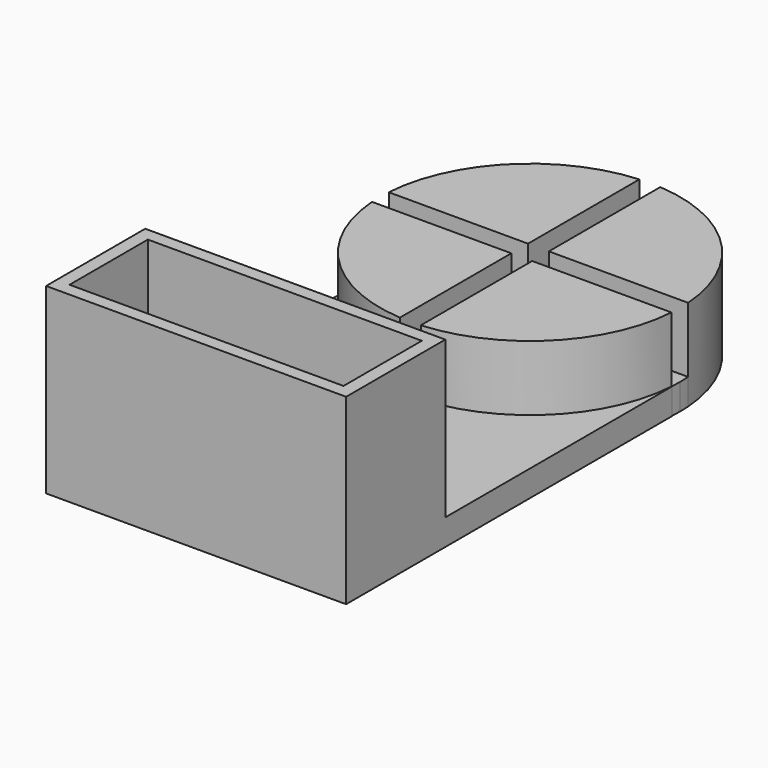
from build123d import *

# Parameters (mm, degrees)
F0_W     = 23
F0_H     = 9.5
F0_W_2   = 21
F0_H_2   = 7.5
F1_DEPTH = 2
F2_DEPTH = 5
F3_DEPTH = 7
F4_DEPTH = 2


with BuildPart() as f1:
    # F0 (on Top) → F1 (new body)
    with BuildSketch(Plane.XY):
        with BuildLine():
            Line((-0.8, 0.8), (-0.8, 11.4721401665))
            ThreePointArc((-0.8, 11.4721401665), (-8.1317279836, 8.1317279836), (-11.4721401665, 0.8))
            Line((-11.4721401665, 0.8), (-0.8, 0.8))
        make_face()
        with BuildLine():
            ThreePointArc((11.4721401665, 0.8), (8.1317279836, 8.1317279836), (0.8, 11.4721401665))
            Line((0.8, 11.4721401665), (0.8, 0.8))
            Line((0.8, 0.8), (11.4721401665, 0.8))
        make_face()
        with Locations((0, -27.25)):
            Rectangle(F0_W, F0_H)
        with Locations((0, -27.25)):
            Rectangle(F0_W_2, F0_H_2, mode=Mode.SUBTRACT)
        with BuildLine():
            Line((-0.8, -0.8), (-11.4721401665, -0.8))
            ThreePointArc((-11.4721401665, -0.8), (-8.1317279836, -8.1317279836), (-0.8, -11.4721401665))
            Line((-0.8, -11.4721401665), (-0.8, -0.8))
        make_face()
        with BuildLine():
            Line((0.8, -0.8), (0.8, -11.4721401665))
            ThreePointArc((0.8, -11.4721401665), (8.1317279836, -8.1317279836), (11.4721401665, -0.8))
            Line((11.4721401665, -0.8), (0.8, -0.8))
        make_face()
        with BuildLine():
            ThreePointArc((-0.8, -11.4721401665), (-8.1317279836, -8.1317279836), (-11.4721401665, -0.8))
            Line((-11.4721401665, -0.8), (-11.5, -0.8))
            Line((-11.5, -0.8), (-11.5, -22.5))
            Line((-11.5, -22.5), (11.5, -22.5))
            Line((11.5, -22.5), (11.5, -0.8))
            Line((11.5, -0.8), (11.4721401665, -0.8))
            ThreePointArc((11.4721401665, -0.8), (8.1317279836, -8.1317279836), (0.8, -11.4721401665))
            ThreePointArc((0.8, -11.4721401665), (0, -11.5), (-0.8, -11.4721401665))
        make_face()
        with BuildLine():
            ThreePointArc((0.8, 11.4721401665), (0, 11.5), (-0.8, 11.4721401665))
            Line((-0.8, 11.4721401665), (-0.8, 0.8))
            Line((-0.8, 0.8), (-11.4721401665, 0.8))
            ThreePointArc((-11.4721401665, 0.8), (-11.5, 0), (-11.4721401665, -0.8))
            Line((-11.4721401665, -0.8), (-0.8, -0.8))
            Line((-0.8, -0.8), (-0.8, -11.4721401665))
            ThreePointArc((-0.8, -11.4721401665), (0, -11.5), (0.8, -11.4721401665))
            Line((0.8, -11.4721401665), (0.8, -0.8))
            Line((0.8, -0.8), (11.4721401665, -0.8))
            ThreePointArc((11.4721401665, -0.8), (11.4930329312, -0.4002424797), (11.5, 0))
            ThreePointArc((11.5, 0), (11.4930329312, 0.4002424797), (11.4721401665, 0.8))
            Line((11.4721401665, 0.8), (0.8, 0.8))
            Line((0.8, 0.8), (0.8, 11.4721401665))
        make_face()
    extrude(amount=-F1_DEPTH)

    # F0 (on Top) → F2 (join)
    with BuildSketch(Plane.XY):
        with BuildLine():
            Line((-0.8, 0.8), (-0.8, 11.4721401665))
            ThreePointArc((-0.8, 11.4721401665), (-8.1317279836, 8.1317279836), (-11.4721401665, 0.8))
            Line((-11.4721401665, 0.8), (-0.8, 0.8))
        make_face()
        with BuildLine():
            ThreePointArc((11.4721401665, 0.8), (8.1317279836, 8.1317279836), (0.8, 11.4721401665))
            Line((0.8, 11.4721401665), (0.8, 0.8))
            Line((0.8, 0.8), (11.4721401665, 0.8))
        make_face()
        with BuildLine():
            Line((0.8, -0.8), (0.8, -11.4721401665))
            ThreePointArc((0.8, -11.4721401665), (8.1317279836, -8.1317279836), (11.4721401665, -0.8))
            Line((11.4721401665, -0.8), (0.8, -0.8))
        make_face()
        with BuildLine():
            Line((-0.8, -0.8), (-11.4721401665, -0.8))
            ThreePointArc((-11.4721401665, -0.8), (-8.1317279836, -8.1317279836), (-0.8, -11.4721401665))
            Line((-0.8, -11.4721401665), (-0.8, -0.8))
        make_face()
        with Locations((0, -27.25)):
            Rectangle(F0_W, F0_H)
        with Locations((0, -27.25)):
            Rectangle(F0_W_2, F0_H_2, mode=Mode.SUBTRACT)
    extrude(amount=F2_DEPTH)

    # F3 (add): a face of the model
    f3_faces = [f1.faces().sort_by_distance(p)[0] for p in [
        (0, -22.7488473428, 5),
    ]]
    extrude(f3_faces, amount=F3_DEPTH)

    # F0 (on Top) → F4 (join)
    with BuildSketch(Plane.XY):
        with Locations((0, -27.25)):
            Rectangle(F0_W_2, F0_H_2)
    extrude(amount=-F4_DEPTH)


solid = f1.part
